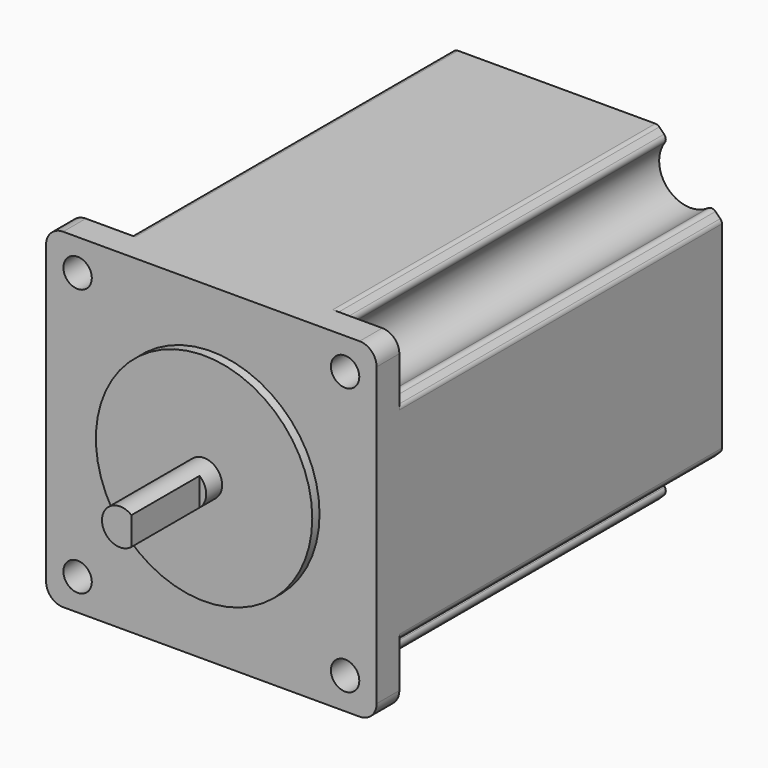
from build123d import *

# Parameters (mm, degrees)
F0_W      = 58.2
F0_H      = 58.2
F1_DEPTH  = 76
F2_R      = 2.5
F3_DEPTH  = 25
F4_W      = 154.9799069762
F4_H      = 154.0232300758
F5_DEPTH  = 71
F6_R      = 1
F7_R      = 3
F8_R      = 19.05
F9_DEPTH  = 1.6
F10_R     = 3.175
F11_DEPTH = 18.5
F13_DEPTH = 15
F14_R     = 3.175
F15_DEPTH = 15


with BuildPart() as f1:
    # F0 (on Front) → F1 (new body)
    with BuildSketch(Plane.XZ):
        Rectangle(F0_W, F0_H)
    extrude(amount=F1_DEPTH)

    # F2 (on face) → F3 (cut)
    with BuildSketch(Plane.XZ.offset(76)):
        with Locations((23.55, 23.55)):
            Circle(F2_R)
        with Locations((23.55, -23.55)):
            Circle(F2_R)
        with Locations((-23.55, -23.55)):
            Circle(F2_R)
        with Locations((-23.55, 23.55)):
            Circle(F2_R)
    extrude(amount=-F3_DEPTH, mode=Mode.SUBTRACT)

    # F4 (on face) → F5 (cut)
    with BuildSketch(Plane(origin=(0, 0, 0), x_dir=(-1, 0, 0), z_dir=(0, 1, 0))):
        with Locations((-0.8317120373, 1.2900978327)):
            Rectangle(F4_W, F4_H)
        with BuildLine():
            Line((27.330764838, 19.555526663), (46.886291501, 0))
            Line((46.886291501, 0), (27.330764838, -19.555526663))
            ThreePointArc((27.330764838, -19.555526663), (19.6609127035, -19.6609127035), (19.555526663, -27.330764838))
            Line((19.555526663, -27.330764838), (0, -46.886291501))
            Line((0, -46.886291501), (-19.555526663, -27.330764838))
            ThreePointArc((-19.555526663, -27.330764838), (-19.6609127035, -19.6609127035), (-27.330764838, -19.555526663))
            Line((-27.330764838, -19.555526663), (-46.886291501, 0))
            Line((-46.886291501, 0), (-27.330764838, 19.555526663))
            ThreePointArc((-27.330764838, 19.555526663), (-19.6609127035, 19.6609127035), (-19.555526663, 27.330764838))
            Line((-19.555526663, 27.330764838), (0, 46.886291501))
            Line((0, 46.886291501), (19.555526663, 27.330764838))
            ThreePointArc((19.555526663, 27.330764838), (19.6609127035, 19.6609127035), (27.330764838, 19.555526663))
        make_face(mode=Mode.SUBTRACT)
    extrude(amount=-F5_DEPTH, mode=Mode.SUBTRACT)

    # F6
    f6_edges = [f1.edges().sort_by_distance(p)[0] for p in [
        (-29.1, -35.5, 17.786292),
        (-17.786292, -35.5, 29.1),
        (-19.555527, -35.5, 27.330765),
        (-27.330765, -35.5, 19.555527),
        (-29.1, -35.5, -17.786292),
        (-27.330765, -35.5, -19.555527),
        (-17.786292, -35.5, -29.1),
        (-19.555527, -35.5, -27.330765),
        (17.786292, -35.5, -29.1),
        (19.555527, -35.5, -27.330765),
        (27.330765, -35.5, -19.555527),
        (29.1, -35.5, -17.786292),
        (27.330765, -35.5, 19.555527),
        (29.1, -35.5, 17.786292),
        (19.555527, -35.5, 27.330765),
        (17.786292, -35.5, 29.1),
    ]]
    fillet(f6_edges, radius=F6_R)

    # F7
    f7_edges = [f1.edges().sort_by_distance(p)[0] for p in [
        (-29.1, -73.5, -29.1),
        (-29.1, -73.5, 29.1),
        (29.1, -73.5, -29.1),
        (29.1, -73.5, 29.1),
    ]]
    fillet(f7_edges, radius=F7_R)

    # F8 (on face) → F9 (join)
    with BuildSketch(Plane.XZ.offset(76)):
        Circle(F8_R)
    extrude(amount=F9_DEPTH)

    # F10 (on face) → F11 (join)
    with BuildSketch(Plane.XZ.offset(77.6)):
        Circle(F10_R)
    extrude(amount=F11_DEPTH)

    # F12 (on face) → F13 (cut)
    with BuildSketch(Plane.XZ.offset(96.1)):
        with BuildLine():
            ThreePointArc((3.175, 0), (2.8662366441, 1.365764438), (2, 2.4658923334))
            Line((2, 2.4658923334), (2, -2.4658923334))
            ThreePointArc((2, -2.4658923334), (2.8662366441, -1.365764438), (3.175, 0))
        make_face()
    extrude(amount=-F13_DEPTH, mode=Mode.SUBTRACT)

    # F14 (on face) → F15 (join)
    with BuildSketch(Plane(origin=(0, 0, 0), x_dir=(-1, 0, 0), z_dir=(0, 1, 0))):
        Circle(F14_R)
    extrude(amount=F15_DEPTH)


solid = f1.part
